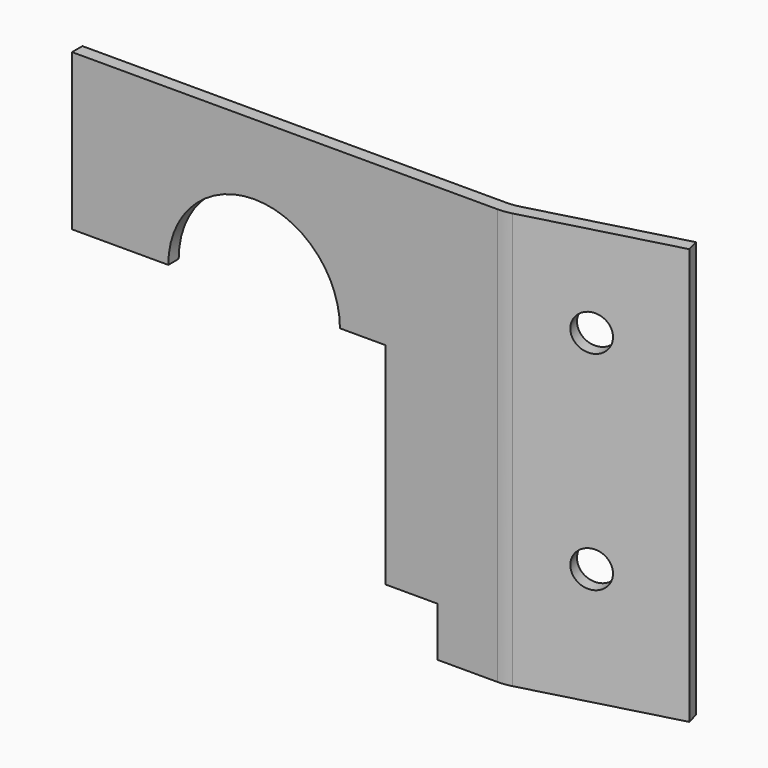
from build123d import *

# Parameters (mm, degrees)
F1_DEPTH      = 60
F1_DEPTH_BACK = 100
F3_DEPTH      = 25
F4_R          = 7
F5_DEPTH      = 25


with BuildPart() as f1:
    # F0 (on Top) → F1 (new body, two sides)
    with BuildSketch(Plane.XY) as f1_sk:
        with BuildLine():
            Line((-70, 0), (-70, -5))
            Line((-70, -5), (93.5252125362, -5))
            ThreePointArc((93.5252125362, -5), (96.1357363806, -4.8288972275), (98.7015934382, -4.3185165258))
            Line((98.7015934382, -4.3185165258), (154.7496448029, 10.6995135747))
            Line((154.7496448029, 10.6995135747), (153.4555495773, 15.5291427062))
            Line((153.4555495773, 15.5291427062), (98.0433309503, 0.6814834742))
            ThreePointArc((98.0433309503, 0.6814834742), (95.4774738927, 0.1711027725), (92.8669500483, 0))
            Line((92.8669500483, 0), (-70, 0))
        make_face()
    extrude(amount=F1_DEPTH)
    extrude(f1_sk.sketch, amount=-F1_DEPTH_BACK)

    # F2 (on Front) → F3 (cut)
    with BuildSketch(Plane.XZ):
        with BuildLine():
            Line((50.5, 0), (33, 0))
            ThreePointArc((33, 0), (0, 33), (-33, 0))
            Line((-33, 0), (-70, 0))
            Line((-70, 0), (-70, -101))
            Line((-70, -101), (70.5, -101))
            Line((70.5, -101), (70.5, -81))
            Line((70.5, -81), (50.5, -81))
            Line((50.5, -81), (50.5, 0))
        make_face()
    extrude(amount=F3_DEPTH, mode=Mode.SUBTRACT)

    # F4 (on face) → F5 (cut)
    with BuildSketch(Plane(origin=(7.6913821948, -28.7046291314, 0), x_dir=(0.9659258263, 0.2588190451, 0), z_dir=(0.2588190451, -0.9659258263, 0))):
        with Locations((120.2459164106, 25)):
            Circle(F4_R)
        with Locations((120.2459164106, -55)):
            Circle(F4_R)
    extrude(amount=-F5_DEPTH, mode=Mode.SUBTRACT)


solid = f1.part
